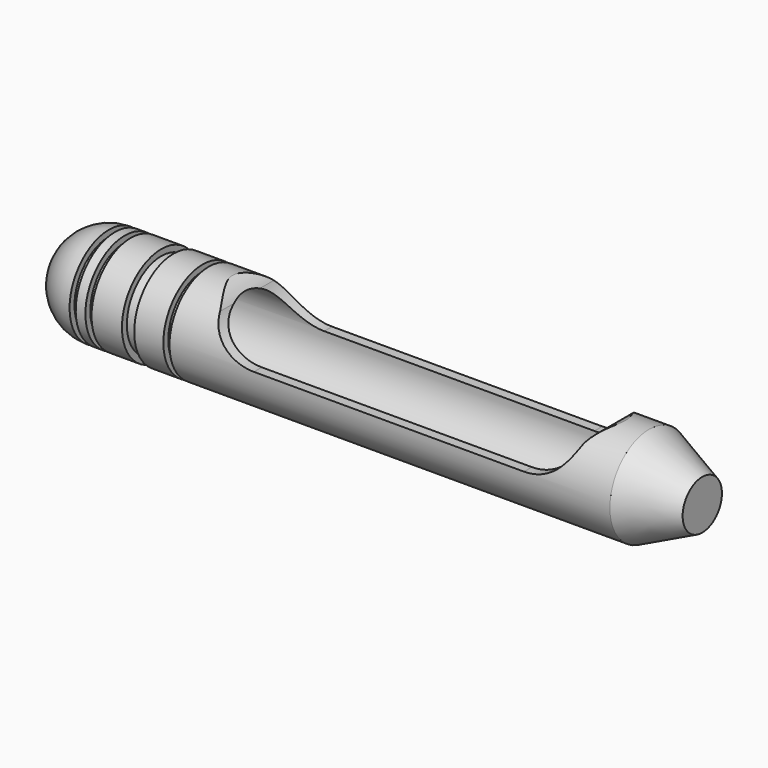
from build123d import *

# Parameters (mm, degrees)
F3_DEPTH      = 12.7
F4_R          = 10.16
F5_DEPTH      = 138.60962
F5_DEPTH_BACK = 3.74144


with BuildPart() as f1:
    # F0 (on Front) → F1 (revolve)
    with BuildSketch(Plane.XZ):
        with BuildLine():
            Line((-78.6915116169, 11.7242524082), (-86.5560208407, 11.7242524082))
            Line((-86.5560208407, 11.7242524082), (-86.5560208407, 10.1367524082))
            Line((-86.5560208407, 10.1367524082), (-88.1435208407, 10.1367524082))
            Line((-88.1435208407, 10.1367524082), (-88.1435208407, 11.7242524082))
            Line((-88.1435208407, 11.7242524082), (-90.648425594, 11.7242524082))
            Line((-90.648425594, 11.7242524082), (-90.648425594, 10.1367524082))
            Line((-90.648425594, 10.1367524082), (-92.235925594, 10.1367524082))
            Line((-92.235925594, 10.1367524082), (-92.235925594, 11.7242524082))
            ThreePointArc((-92.235925594, 11.7242524082), (-101.2161817151, 8.0045085293), (-104.935925594, -0.9757475918))
            Line((-104.935925594, -0.9757475918), (47.464074406, -0.9757475918))
            Line((47.464074406, -0.9757475918), (61.2039872572, -0.9757475918))
            Line((61.2039872572, -0.9757475918), (61.2039872572, 5.3742524082))
            Line((61.2039872572, 5.3742524082), (47.464074406, 11.7242524082))
            Line((47.464074406, 11.7242524082), (-66.3975579772, 11.7242524082))
            Line((-66.3975579772, 11.7242524082), (-66.3975579772, 10.1367524082))
            Line((-66.3975579772, 10.1367524082), (-67.9850579772, 10.1367524082))
            Line((-67.9850579772, 10.1367524082), (-67.9850579772, 11.7242524082))
            Line((-67.9850579772, 11.7242524082), (-75.5165116169, 11.7242524082))
            Line((-75.5165116169, 11.7242524082), (-75.5165116169, 10.1367524082))
            Line((-75.5165116169, 10.1367524082), (-78.6915116169, 10.1367524082))
            Line((-78.6915116169, 10.1367524082), (-78.6915116169, 11.7242524082))
        make_face()
    revolve(axis=Axis((-28.735925594, 0, -0.9757475918), (-1, 0, 0)))

    # F2 (on Front) → F3 (cut, symmetric)
    with BuildSketch(Plane.XZ):
        with BuildLine():
            ThreePointArc((-56.52696557, 8.2861608072), (-51.8724141542, 2.2753715234), (-44.6186481582, 0))
            Line((-44.6186481582, 0), (25.2313518418, 0))
            ThreePointArc((25.2313518418, 0), (32.6508184362, 2.392647505), (37.2746679855, 8.6690526842))
            ThreePointArc((37.2746679855, 8.6690526842), (39.0418683994, 10.5448245437), (41.3332582144, 11.7242524082))
            Line((41.3332582144, 11.7242524082), (-60.2667417856, 11.7242524082))
            ThreePointArc((-60.2667417856, 11.7242524082), (-58.1019120471, 10.3260286868), (-56.52696557, 8.2861608072))
        make_face()
    extrude(amount=F3_DEPTH, both=True, mode=Mode.SUBTRACT)

    # F4 (on face) → F5 (cut, two sides)
    with BuildSketch(Plane(origin=(-90.648425594, 0, 0), x_dir=(0, -1, 0), z_dir=(-1, 0, 0))) as f5_sk:
        with Locations((0, -0.9757475918)):
            Circle(F4_R)
    extrude(amount=-F5_DEPTH, mode=Mode.SUBTRACT)
    extrude(f5_sk.sketch, amount=F5_DEPTH_BACK, mode=Mode.SUBTRACT)


solid = f1.part
